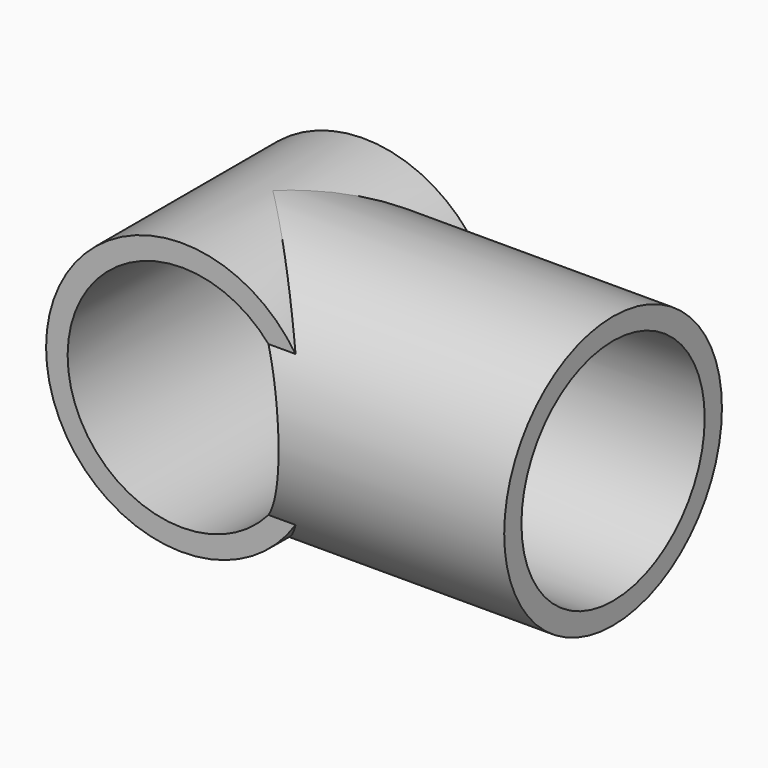
from build123d import *

# Parameters (mm, degrees)
CYLINDER002_R           = 10.1
CYLINDER002_DEPTH       = 20
CYLINDER002_PITCH_ANGLE = 90
CYLINDER003_R           = 10.1
CYLINDER003_DEPTH       = 30
CYLINDER_R              = 12
CYLINDER_DEPTH          = 30
CYLINDER_PITCH_ANGLE    = 90
CYLINDER001_R           = 12
CYLINDER001_DEPTH       = 20


with BuildPart() as cylinder002:
    # Cylinder002 → Cylinder002 (new body)
    with BuildSketch(Plane.XY):
        Circle(CYLINDER002_R)
    extrude(amount=CYLINDER002_DEPTH)


with BuildPart() as cylinder002_1:
    # Cylinder002 pitch: moved
    add(cylinder002.part.rotate(Axis((0, 0, 0), (0, 1, 0)), CYLINDER002_PITCH_ANGLE))


with BuildPart() as cylinder002_2:
    # Cylinder002 placement: moved
    add(cylinder002_1.part.moved(Location((10, 0, 0))))


with BuildPart() as negative_fusion:
    # Cylinder003 → Cylinder003 (new body)
    with BuildSketch(Plane(origin=(0, -15, 0), x_dir=(0, 0, -1), z_dir=(0, 1, 0))):
        Circle(CYLINDER003_R)
    extrude(amount=CYLINDER003_DEPTH)

    # Fusion001: union Cylinder002
    add(cylinder002_2.part)


with BuildPart() as cylinder:
    # Cylinder → Cylinder (new body)
    with BuildSketch(Plane.XY):
        Circle(CYLINDER_R)
    extrude(amount=CYLINDER_DEPTH)


with BuildPart() as cylinder_1:
    # Cylinder pitch: moved
    add(cylinder.part.rotate(Axis((0, 0, 0), (0, 1, 0)), CYLINDER_PITCH_ANGLE))


with BuildPart() as cylinder_2:
    # Cylinder placement: moved
    add(cylinder_1.part)


with BuildPart() as cut:
    # Cylinder001 → Cylinder001 (new body)
    with BuildSketch(Plane(origin=(0, -10, 0), x_dir=(0, 0, -1), z_dir=(0, 1, 0))):
        Circle(CYLINDER001_R)
    extrude(amount=CYLINDER001_DEPTH)

    # Fusion: union Cylinder
    add(cylinder_2.part)

    # Cut: cut Negative Fusion
    add(negative_fusion.part, mode=Mode.SUBTRACT)


solid = cut.part
